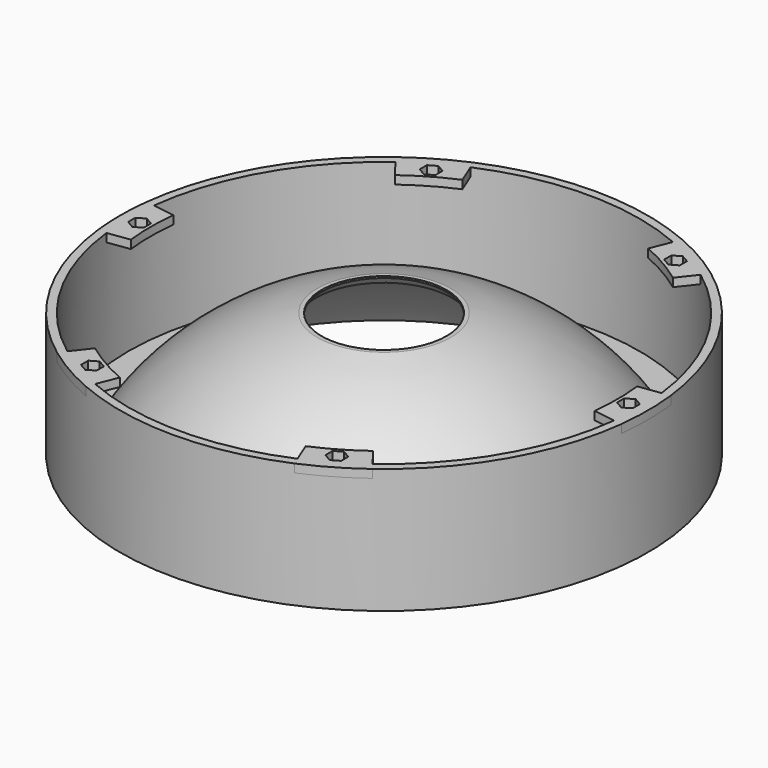
from build123d import *

# Parameters (mm, degrees)
SKETCH002_W           = 150
SKETCH002_H           = 20
POCKET_DEPTH          = 50
SKETCH001_R           = 22.5
POCKET001_DEPTH       = 45.001
PAD_DEPTH             = 3
POLARPATTERN_COUNT    = 6
POCKET002_DEPTH       = 5
POLARPATTERN001_COUNT = 6
CHAMFER_SIZE          = 2


with BuildPart() as part:
    # Sketch → Revolution (revolve)
    with BuildSketch(Plane.XZ):
        with BuildLine():
            Line((-95, 45), (-95, 0))
            Line((-95, 0), (-82, 0))
            ThreePointArc((0, 45), (-46.768045, 33.010659), (-82, 0))
            Line((0, 45), (0, 48))
            ThreePointArc((0, 48), (-46.768045, 36.010659), (-82, 3))
            Line((-82, 3), (-92, 3))
            Line((-92, 3), (-92, 45))
            Line((-92, 45), (-95, 45))
        make_face()
    revolve(axis=Axis((0, 0, 0), (0, 0, 1)))

    # Sketch002 → Pocket (cut, symmetric)
    with BuildSketch(Plane.XZ):
        with Locations((0, 55)):
            Rectangle(SKETCH002_W, SKETCH002_H)
    extrude(amount=POCKET_DEPTH, both=True, mode=Mode.SUBTRACT)

    # Sketch001 → Pocket001 (cut, through all)
    with BuildSketch(Plane.XY):
        Circle(SKETCH001_R)
    extrude(amount=POCKET001_DEPTH, mode=Mode.SUBTRACT)

    # Sketch003 → Pad (join)
    with BuildSketch(Plane.XY.offset(45)):
        with BuildLine():
            ThreePointArc((-94.347763, 11.113041), (-95, 0), (-94.347763, -11.113041))
            Line((-83.480776, -9.563365), (-94.347763, -11.113041))
            ThreePointArc((-83.480776, 9.563365), (-84.020478, 0), (-83.480776, -9.563365))
            Line((-83.480776, 9.563365), (-94.347763, 11.113041))
        make_face()
    pad = extrude(amount=-PAD_DEPTH)

    # PolarPattern: Pad ×6 about axis
    polarpattern_axis = Axis((0, 0, 0), (0, 0, 1))
    for i in range(1, POLARPATTERN_COUNT):
        add(pad.rotate(polarpattern_axis, i * 360 / POLARPATTERN_COUNT))

    # Sketch004 → Pocket002 (cut)
    with BuildSketch(Plane.XY.offset(45)):
        Polygon((-85.185417, 1.625), (-88, 3.25), (-90.814583, 1.625), (-90.814583, -1.625), (-88, -3.25), (-85.185417, -1.625), align=None)
    pocket002 = extrude(amount=-POCKET002_DEPTH, mode=Mode.SUBTRACT)

    # PolarPattern001: Pocket002 ×6 about axis
    polarpattern001_axis = Axis((0, 0, 0), (0, 0, 1))
    for i in range(1, POLARPATTERN001_COUNT):
        add(pocket002.rotate(polarpattern001_axis, i * 360 / POLARPATTERN001_COUNT), mode=Mode.SUBTRACT)

    # Chamfer
    chamfer_edges = [part.edges().sort_by_distance(p)[0] for p in [
        (0, 22.5, 42.360291),
        (0, -22.5, 42.360291),
    ]]
    chamfer(chamfer_edges, length=CHAMFER_SIZE)


solid = part.part
